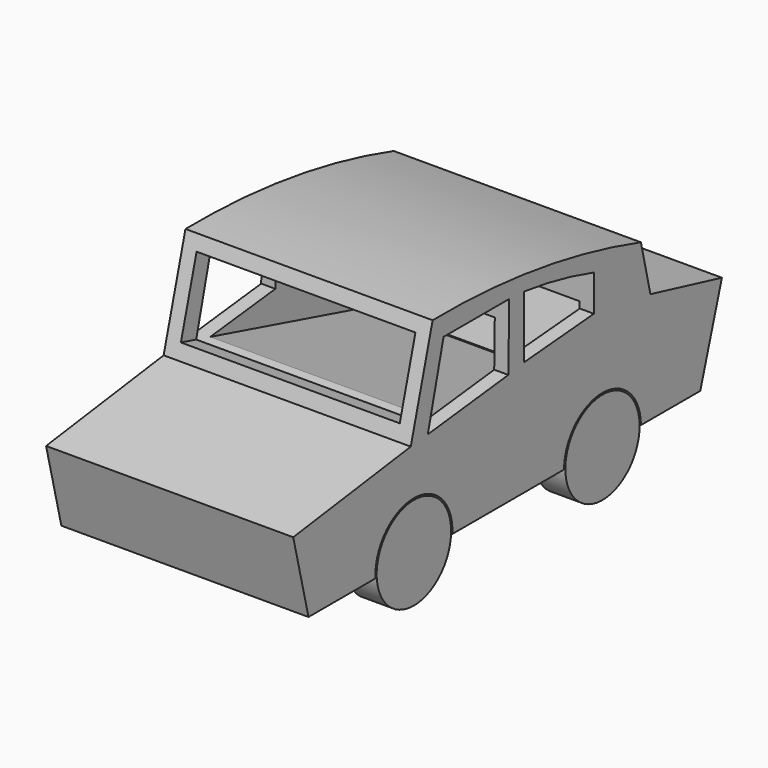
from build123d import *

# Parameters (mm, degrees)
F1_DEPTH = 25.4
F2_R     = 9.563737
F2_R_2   = 9.544424
F3_DEPTH = 6.35
F4_R     = 9.729083
F4_R_2   = 9.657045
F5_DEPTH = 6.35
F6_W     = 44.986753
F6_H     = 15.334638
F7_DEPTH = 50.546
F9_DEPTH = 59.69


with BuildPart() as f1:
    # F0 (on Right) → F1 (new body, symmetric)
    with BuildSketch(Plane.YZ):
        with BuildLine():
            Line((-53.460501, 16.036119), (-49.53329, 0))
            Line((-49.53329, 0), (-32.332018, 0))
            ThreePointArc((-32.332018, 0), (-22.457214, 10.517017), (-12.582411, 0))
            Line((-12.582411, 0), (16.119331, 0))
            ThreePointArc((16.119331, 0), (25.994134, 9.874803), (35.868938, 0))
            Line((35.868938, 0), (51.125996, 0))
            Line((51.125996, 0), (56.684917, 18.220892))
            Line((56.684917, 18.220892), (38.312331, 22.709147))
            Line((38.312331, 22.709147), (35.868938, 33.093561))
            ThreePointArc((35.868938, 33.093561), (9.412354, 39.022704), (-17.646126, 40.73857))
            Line((-17.646126, 40.73857), (-23.259997, 20.154368))
            Line((-23.259997, 20.154368), (-53.460501, 16.036119))
        make_face()
    extrude(amount=F1_DEPTH, both=True)

    # F6 (on face) → F7 (cut)
    with BuildSketch(Plane(origin=(0, -26.765798, 7.299761), x_dir=(1, 0, 0), z_dir=(0, -0.964764, 0.263117))):
        with Locations((-2e-06, 24.041756)):
            Rectangle(F6_W, F6_H)
    extrude(amount=-F7_DEPTH, mode=Mode.SUBTRACT)

    # F8 (on face) → F9 (cut)
    with BuildSketch(Plane(origin=(-25.4, 0, 0), x_dir=(0, -1, 0), z_dir=(-1, 0, 0))):
        Polygon((-2.02692, 36.591243), (-1.813561, 22.936201), (18.882358, 20.58924), (14.82852, 36.591243), align=None)
        with BuildLine():
            Line((-23.789641, 25.069801), (-5.8674, 23.57628))
            Line((-5.8674, 23.57628), (-5.8674, 36.377881))
            ThreePointArc((-5.8674, 36.377881), (-14.913724, 34.855258), (-23.789641, 32.537401))
            Line((-23.789641, 32.537401), (-23.789641, 25.069801))
        make_face()
    extrude(amount=-F9_DEPTH, mode=Mode.SUBTRACT)


with BuildPart() as f3:
    # F2 (on face) → F3 (new body)
    with BuildSketch(Plane.YZ.offset(25.4)):
        with Locations((-22.457214, 0.622605)):
            Circle(F2_R)
        with Locations((25.994134, 0)):
            Circle(F2_R_2)
    extrude(amount=-F3_DEPTH)


with BuildPart() as f5:
    # F4 (on face) → F5 (new body)
    with BuildSketch(Plane(origin=(-25.4, 0, 0), x_dir=(0, -1, 0), z_dir=(-1, 0, 0))):
        with Locations((-25.994134, 0)):
            Circle(F4_R)
        with Locations((22.457214, 0.622605)):
            Circle(F4_R_2)
    extrude(amount=-F5_DEPTH)


solid = Compound([f1.part, f3.part, f5.part])
